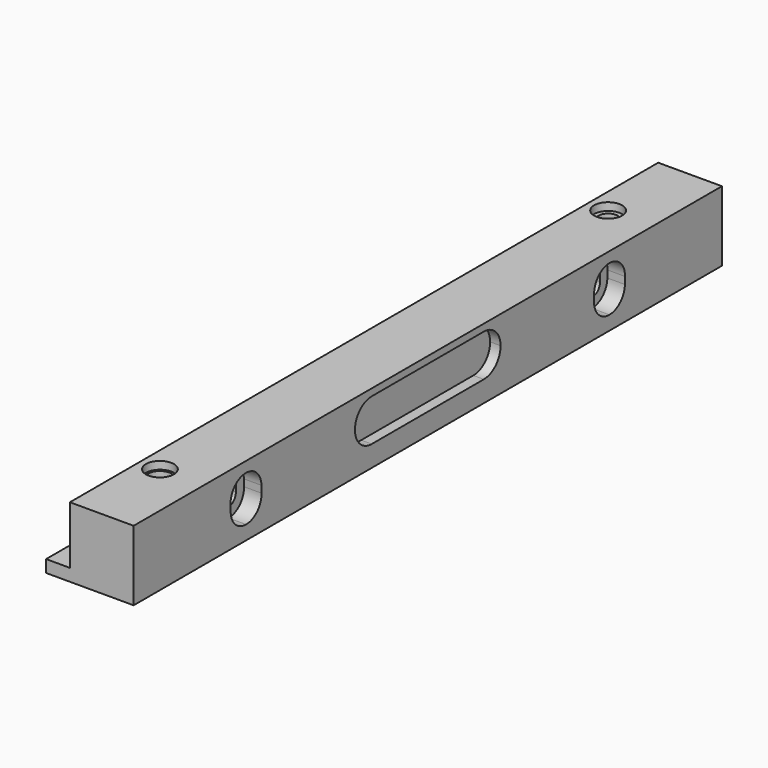
from build123d import *

# Parameters (mm, degrees)
F1_DEPTH  = 105
F2_R      = 2.75
F2_R_2    = 3.342639
F3_DEPTH  = 20.001
F5_DEPTH  = 25.001
F7_DEPTH  = 5
F9_DEPTH  = 7
F10_R     = 4
F11_DEPTH = 2.2
F12_R     = 5
F13_DEPTH = 7
F15_DEPTH = 3


with BuildPart() as f1:
    # F0 (on Front) → F1 (new body, symmetric)
    with BuildSketch(Plane.XZ):
        Polygon((-12.5, -6.5), (-12.5, -10), (12.5, -10), (12.5, 10), (-5.7, 10), (-5.7, -6.5), align=None)
    extrude(amount=F1_DEPTH, both=True)

    # F2 (on face) → F3 (cut, through all)
    with BuildSketch(Plane.XY.offset(10)):
        with Locations((0, 80)):
            Circle(F2_R)
        with Locations((0, -80)):
            Circle(F2_R_2)
    extrude(amount=-F3_DEPTH, mode=Mode.SUBTRACT)

    # F4 (on face) → F5 (cut, through all)
    with BuildSketch(Plane.YZ.offset(12.5)):
        with BuildLine():
            ThreePointArc((-65, 4.25), (-66.944544, 3.444544), (-67.75, 1.5))
            Line((-67.75, 1.5), (-67.75, -0.5))
            ThreePointArc((-67.75, -0.5), (-66.944544, -2.444544), (-65, -3.25))
            ThreePointArc((-65, -3.25), (-63.055456, -2.444544), (-62.25, -0.5))
            Line((-62.25, -0.5), (-62.25, 1.5))
            ThreePointArc((-62.25, 1.5), (-63.055456, 3.444544), (-65, 4.25))
        make_face()
        with BuildLine():
            ThreePointArc((65, 4.25), (63.055456, 3.444544), (62.25, 1.5))
            Line((62.25, 1.5), (62.25, -0.5))
            ThreePointArc((62.25, -0.5), (63.055456, -2.444544), (65, -3.25))
            ThreePointArc((65, -3.25), (66.944544, -2.444544), (67.75, -0.5))
            Line((67.75, -0.5), (67.75, 1.5))
            ThreePointArc((67.75, 1.5), (66.944544, 3.444544), (65, 4.25))
        make_face()
    extrude(amount=-F5_DEPTH, mode=Mode.SUBTRACT)

    # F6 (on face) → F7 (cut)
    with BuildSketch(Plane.YZ.offset(12.5)):
        with BuildLine():
            Line((-64.860655, -6), (-64.834395, -6))
            ThreePointArc((-64.834395, -6), (-60.902267, -4.345564), (-59.335758, -0.377587))
            Line((-59.335758, -0.377587), (-59.380282, 1.622413))
            ThreePointArc((-59.380282, 1.622413), (-61.033355, 5.432129), (-64.87892, 7))
            Line((-64.87892, 7), (-64.905179, 7))
            ThreePointArc((-64.905179, 7), (-68.837308, 5.345564), (-70.403817, 1.377587))
            Line((-70.403817, 1.377587), (-70.359292, -0.622413))
            ThreePointArc((-70.359292, -0.622413), (-68.706219, -4.432129), (-64.860655, -6))
        make_face()
        with BuildLine():
            Line((59.380282, 1.622413), (59.335758, -0.377587))
            ThreePointArc((59.335758, -0.377587), (60.902267, -4.345564), (64.834395, -6))
            Line((64.834395, -6), (64.860655, -6))
            ThreePointArc((64.860655, -6), (68.706219, -4.432129), (70.359292, -0.622413))
            Line((70.359292, -0.622413), (70.403817, 1.377587))
            ThreePointArc((70.403817, 1.377587), (68.837308, 5.345564), (64.905179, 7))
            Line((64.905179, 7), (64.87892, 7))
            ThreePointArc((64.87892, 7), (61.033355, 5.432129), (59.380282, 1.622413))
        make_face()
    extrude(amount=-F7_DEPTH, mode=Mode.SUBTRACT)

    # F8 (on face) → F9 (cut)
    with BuildSketch(Plane(origin=(-5.7, 0, 0), x_dir=(0, -1, 0), z_dir=(-1, 0, 0))):
        with BuildLine():
            ThreePointArc((60, -1.5), (61.464466, -5.035534), (65, -6.5))
            ThreePointArc((65, -6.5), (68.535534, -5.035534), (70, -1.5))
            Line((70, -1.5), (70, 2.267072))
            ThreePointArc((70, 2.267072), (67.714856, 6.465829), (62.948177, 6.826679))
            ThreePointArc((62.948177, 6.826679), (60.801243, 4.981928), (60, 2.267072))
            Line((60, 2.267072), (60, -1.5))
        make_face()
        with BuildLine():
            ThreePointArc((67.75, -0.5), (65, -3.25), (62.25, -0.5))
            Line((62.25, -0.5), (62.25, 1.5))
            ThreePointArc((62.25, 1.5), (65, 4.25), (67.75, 1.5))
            Line((67.75, 1.5), (67.75, -0.5))
        make_face(mode=Mode.SUBTRACT)
        with BuildLine():
            ThreePointArc((-62.948177, 6.826679), (-67.714856, 6.465829), (-70, 2.267072))
            Line((-70, 2.267072), (-70, -1.5))
            ThreePointArc((-70, -1.5), (-68.535534, -5.035534), (-65, -6.5))
            ThreePointArc((-65, -6.5), (-61.464466, -5.035534), (-60, -1.5))
            Line((-60, -1.5), (-60, 2.267072))
            ThreePointArc((-60, 2.267072), (-60.801243, 4.981928), (-62.948177, 6.826679))
        make_face()
        with BuildLine():
            ThreePointArc((-62.25, -0.5), (-65, -3.25), (-67.75, -0.5))
            Line((-67.75, -0.5), (-67.75, 1.5))
            ThreePointArc((-67.75, 1.5), (-65, 4.25), (-62.25, 1.5))
            Line((-62.25, 1.5), (-62.25, -0.5))
        make_face(mode=Mode.SUBTRACT)
        with BuildLine():
            ThreePointArc((-62.948177, 6.826679), (-67.714856, 6.465829), (-70, 2.267072))
            Line((-70, 2.267072), (-70, -1.5))
            ThreePointArc((-70, -1.5), (-68.535534, -5.035534), (-65, -6.5))
            ThreePointArc((-65, -6.5), (-61.464466, -5.035534), (-60, -1.5))
            Line((-60, -1.5), (-60, 2.267072))
            ThreePointArc((-60, 2.267072), (-60.801243, 4.981928), (-62.948177, 6.826679))
        make_face()
        with BuildLine():
            ThreePointArc((-62.25, -0.5), (-65, -3.25), (-67.75, -0.5))
            Line((-67.75, -0.5), (-67.75, 1.5))
            ThreePointArc((-67.75, 1.5), (-65, 4.25), (-62.25, 1.5))
            Line((-62.25, 1.5), (-62.25, -0.5))
        make_face(mode=Mode.SUBTRACT)
        with BuildLine():
            ThreePointArc((60, -1.5), (61.464466, -5.035534), (65, -6.5))
            ThreePointArc((65, -6.5), (68.535534, -5.035534), (70, -1.5))
            Line((70, -1.5), (70, 2.267072))
            ThreePointArc((70, 2.267072), (67.714856, 6.465829), (62.948177, 6.826679))
            ThreePointArc((62.948177, 6.826679), (60.801243, 4.981928), (60, 2.267072))
            Line((60, 2.267072), (60, -1.5))
        make_face()
        with BuildLine():
            ThreePointArc((67.75, -0.5), (65, -3.25), (62.25, -0.5))
            Line((62.25, -0.5), (62.25, 1.5))
            ThreePointArc((62.25, 1.5), (65, 4.25), (67.75, 1.5))
            Line((67.75, 1.5), (67.75, -0.5))
        make_face(mode=Mode.SUBTRACT)
    extrude(amount=-F9_DEPTH, mode=Mode.SUBTRACT)

    # F10 (on face) → F11 (cut)
    with BuildSketch(Plane.XY.offset(10)):
        with Locations((0, -80)):
            Circle(F10_R)
        with Locations((0, 80)):
            Circle(F10_R)
    extrude(amount=-F11_DEPTH, mode=Mode.SUBTRACT)

    # F12 (on face) → F13 (cut)
    with BuildSketch(Plane(origin=(0, 0, -10), x_dir=(1, 0, 0), z_dir=(0, 0, -1))):
        with Locations((0, 80)):
            Circle(F12_R)
        with Locations((0, -80)):
            Circle(F12_R)
    extrude(amount=-F13_DEPTH, mode=Mode.SUBTRACT)

    # F14 (on face) → F15 (cut)
    with BuildSketch(Plane.YZ.offset(12.5)):
        with BuildLine():
            Line((20, 8), (-20, 8))
            ThreePointArc((-20, 8), (-24.242641, 6.242641), (-26, 2))
            ThreePointArc((-26, 2), (-24.242641, -2.242641), (-20, -4))
            Line((-20, -4), (20, -4))
            ThreePointArc((20, -4), (24.242641, -2.242641), (26, 2))
            ThreePointArc((26, 2), (24.242641, 6.242641), (20, 8))
        make_face()
    extrude(amount=-F15_DEPTH, mode=Mode.SUBTRACT)


solid = f1.part
